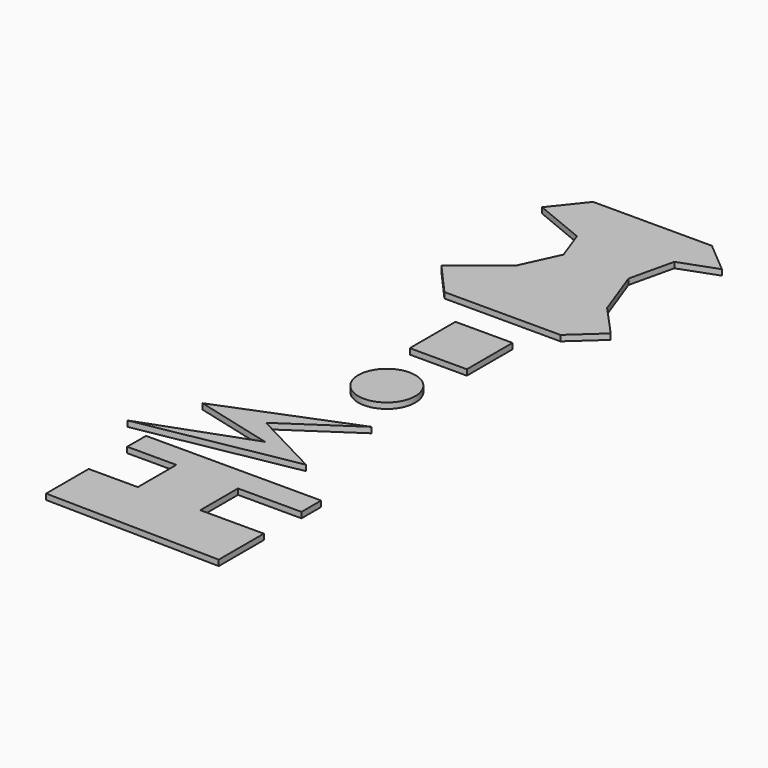
from build123d import *

# Parameters (mm, degrees)
F0_W     = 10
F0_H     = 10
F0_R     = 5
F1_DEPTH = 1


with BuildPart() as f1:
    # F0 (on Top) → F1 (new body)
    with BuildSketch(Plane.XY):
        with Locations((0.515197, 15.630106)):
            Rectangle(F0_W, F0_H)
        Circle(F0_R)
        Polygon((5.998152, -10.841748), (-16.425883, -19.811362), (-2.612678, -23.399208), (-21.269476, -30.216115), (5.998152, -25.193131), (-6.021129, -18.914402), align=None)
        Polygon((-16.425883, -44.746891), (-16.425883, -54.07529), (14.250197, -54.613467), (14.250197, -44.746891), (3.127878, -44.746891), (3.127878, -36.494844), (14.250197, -36.494844), (14.250197, -32.189429), (-16.425883, -32.189429), (-16.425883, -36.315452), (-7.815054, -36.315452), (-7.815054, -44.746891), align=None)
        Polygon((-8.417216, 38.819421), (-16.425883, 32.476947), (-11.161714, 26.569341), (9.162663, 26.569341), (14.250197, 31.208452), (9.142588, 36.809771), (5.998152, 45.415595), (7.797876, 53.205975), (14.250197, 55.563554), (8.834315, 60.130138), (-11.969001, 60.130138), (-16.425883, 54.548759), (-7.344975, 50.813051), (-5.372827, 45.415595), align=None)
    extrude(amount=F1_DEPTH)


solid = f1.part
